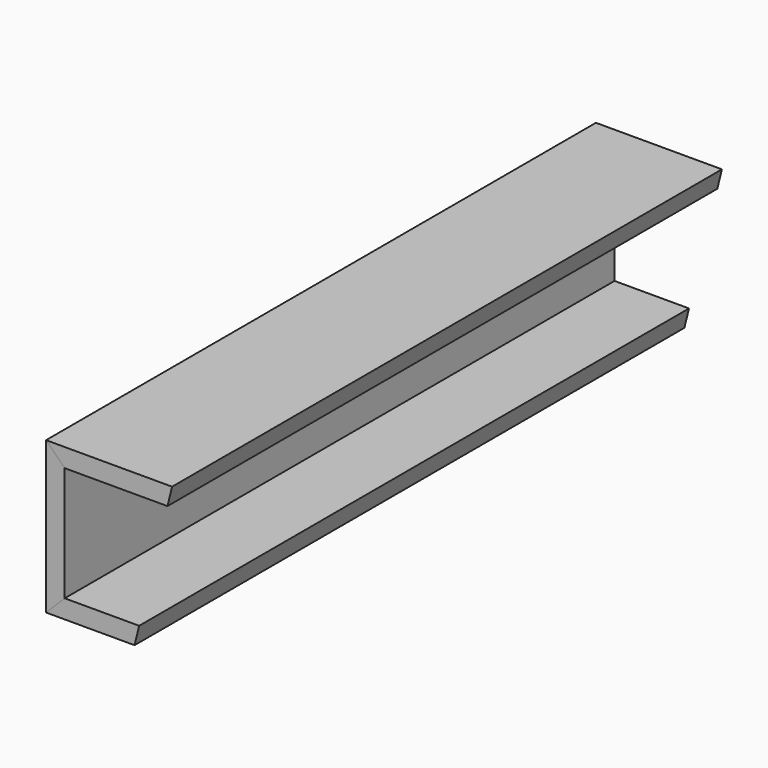
from build123d import *

# Parameters (mm, degrees)
F1_DEPTH = 762
F0_W     = 20.6375
F0_H     = 127
F2_DEPTH = 762


with BuildPart() as f1:
    # F0 (on Front) → F1 (new body)
    with BuildSketch(Plane.XZ):
        Polygon((0, 168.275), (20.6375, 147.6375), (134.596102, 147.6375), (139.7, 168.275), align=None)
        Polygon((20.6375, 20.6375), (0, 0), (98.083602, 0), (103.1875, 20.6375), align=None)
    extrude(amount=F1_DEPTH)


with BuildPart() as f2:
    # F0 (on Front) → F2 (new body, through all)
    with BuildSketch(Plane.XZ):
        Polygon((0, 168.275), (0, 147.6375), (20.6375, 147.6375), align=None)
        with Locations((10.31875, 84.1375)):
            Rectangle(F0_W, F0_H)
        Polygon((0, 20.6375), (0, 0), (20.6375, 20.6375), align=None)
    extrude(amount=F2_DEPTH)


solid = Compound([f1.part, f2.part])
